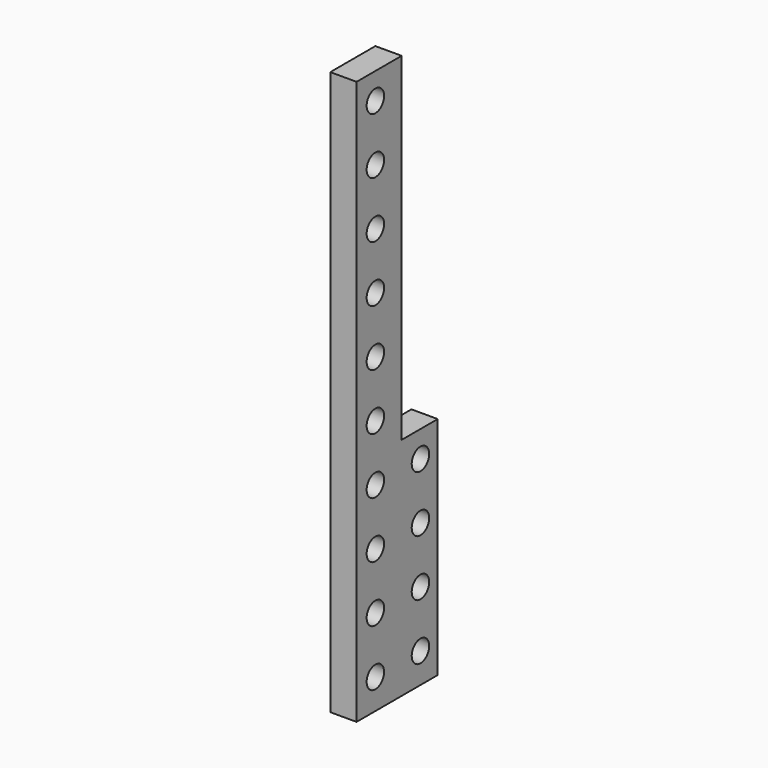
from build123d import *

# Parameters (mm, degrees)
CYLINDER021_R     = 2.9
CYLINDER021_DEPTH = 132
CYLINDER022_R     = 2.9
CYLINDER022_DEPTH = 132
CYLINDER023_R     = 2.9
CYLINDER023_DEPTH = 132
CYLINDER024_R     = 2.9
CYLINDER024_DEPTH = 132
CYLINDER025_R     = 2.9
CYLINDER025_DEPTH = 132
CYLINDER026_R     = 2.9
CYLINDER026_DEPTH = 132
CYLINDER027_R     = 2.9
CYLINDER027_DEPTH = 132
CYLINDER028_R     = 2.9
CYLINDER028_DEPTH = 132
CYLINDER029_R     = 2.9
CYLINDER029_DEPTH = 132
CYLINDER030_R     = 2.9
CYLINDER030_DEPTH = 132
CYLINDER031_R     = 2.9
CYLINDER031_DEPTH = 132
CYLINDER032_R     = 2.9
CYLINDER032_DEPTH = 132
CYLINDER033_R     = 2.9
CYLINDER033_DEPTH = 132
CYLINDER034_R     = 2.9
CYLINDER034_DEPTH = 132
CYLINDER035_R     = 2.9
CYLINDER035_DEPTH = 132
CYLINDER036_R     = 2.9
CYLINDER036_DEPTH = 132
CYLINDER037_R     = 2.9
CYLINDER037_DEPTH = 132
CYLINDER038_R     = 2.9
CYLINDER038_DEPTH = 132
CYLINDER039_R     = 2.9
CYLINDER039_DEPTH = 132
CYLINDER020_R     = 2.9
CYLINDER020_DEPTH = 132
CYLINDER001_R     = 2.9
CYLINDER001_DEPTH = 132
CYLINDER002_R     = 2.9
CYLINDER002_DEPTH = 132
CYLINDER003_R     = 2.9
CYLINDER003_DEPTH = 132
CYLINDER004_R     = 2.9
CYLINDER004_DEPTH = 132
CYLINDER005_R     = 2.9
CYLINDER005_DEPTH = 132
CYLINDER006_R     = 2.9
CYLINDER006_DEPTH = 132
CYLINDER007_R     = 2.9
CYLINDER007_DEPTH = 132
CYLINDER008_R     = 2.9
CYLINDER008_DEPTH = 132
CYLINDER009_R     = 2.9
CYLINDER009_DEPTH = 132
CYLINDER010_R     = 2.9
CYLINDER010_DEPTH = 132
CYLINDER011_R     = 2.9
CYLINDER011_DEPTH = 132
CYLINDER012_R     = 2.9
CYLINDER012_DEPTH = 132
CYLINDER013_R     = 2.9
CYLINDER013_DEPTH = 132
CYLINDER014_R     = 2.9
CYLINDER014_DEPTH = 132
CYLINDER015_R     = 2.9
CYLINDER015_DEPTH = 132
CYLINDER016_R     = 2.9
CYLINDER016_DEPTH = 132
CYLINDER017_R     = 2.9
CYLINDER017_DEPTH = 132
CYLINDER018_R     = 2.9
CYLINDER018_DEPTH = 132
CYLINDER019_R     = 2.9
CYLINDER019_DEPTH = 132
CYLINDER_R        = 2.9
CYLINDER_DEPTH    = 132
CUBE001_W         = 7
CUBE001_H         = 15
CUBE001_DEPTH     = 150
CUBE_W            = 7
CUBE_H            = 12
CUBE_DEPTH        = 60


with BuildPart() as cylinder021:
    # cylinder021 → cylinder021 (new body)
    with BuildSketch(Plane(origin=(-66, 0, 25), x_dir=(0, 0, -1), z_dir=(1, 0, 0))):
        Circle(CYLINDER021_R)
    extrude(amount=CYLINDER021_DEPTH)


with BuildPart() as cylinder022:
    # cylinder022 → cylinder022 (new body)
    with BuildSketch(Plane(origin=(-66, 0, 40), x_dir=(0, 0, -1), z_dir=(1, 0, 0))):
        Circle(CYLINDER022_R)
    extrude(amount=CYLINDER022_DEPTH)


with BuildPart() as cylinder023:
    # cylinder023 → cylinder023 (new body)
    with BuildSketch(Plane(origin=(-66, 0, 55), x_dir=(0, 0, -1), z_dir=(1, 0, 0))):
        Circle(CYLINDER023_R)
    extrude(amount=CYLINDER023_DEPTH)


with BuildPart() as cylinder024:
    # cylinder024 → cylinder024 (new body)
    with BuildSketch(Plane(origin=(-66, 0, 70), x_dir=(0, 0, -1), z_dir=(1, 0, 0))):
        Circle(CYLINDER024_R)
    extrude(amount=CYLINDER024_DEPTH)


with BuildPart() as cylinder025:
    # cylinder025 → cylinder025 (new body)
    with BuildSketch(Plane(origin=(-66, 0, 85), x_dir=(0, 0, -1), z_dir=(1, 0, 0))):
        Circle(CYLINDER025_R)
    extrude(amount=CYLINDER025_DEPTH)


with BuildPart() as cylinder026:
    # cylinder026 → cylinder026 (new body)
    with BuildSketch(Plane(origin=(-66, 0, 100), x_dir=(0, 0, -1), z_dir=(1, 0, 0))):
        Circle(CYLINDER026_R)
    extrude(amount=CYLINDER026_DEPTH)


with BuildPart() as cylinder027:
    # cylinder027 → cylinder027 (new body)
    with BuildSketch(Plane(origin=(-66, 0, 115), x_dir=(0, 0, -1), z_dir=(1, 0, 0))):
        Circle(CYLINDER027_R)
    extrude(amount=CYLINDER027_DEPTH)


with BuildPart() as cylinder028:
    # cylinder028 → cylinder028 (new body)
    with BuildSketch(Plane(origin=(-66, 0, 130), x_dir=(0, 0, -1), z_dir=(1, 0, 0))):
        Circle(CYLINDER028_R)
    extrude(amount=CYLINDER028_DEPTH)


with BuildPart() as cylinder029:
    # cylinder029 → cylinder029 (new body)
    with BuildSketch(Plane(origin=(-66, 0, 145), x_dir=(0, 0, -1), z_dir=(1, 0, 0))):
        Circle(CYLINDER029_R)
    extrude(amount=CYLINDER029_DEPTH)


with BuildPart() as cylinder030:
    # cylinder030 → cylinder030 (new body)
    with BuildSketch(Plane(origin=(-66, 0, 160), x_dir=(0, 0, -1), z_dir=(1, 0, 0))):
        Circle(CYLINDER030_R)
    extrude(amount=CYLINDER030_DEPTH)


with BuildPart() as cylinder031:
    # cylinder031 → cylinder031 (new body)
    with BuildSketch(Plane(origin=(-66, 0, 175), x_dir=(0, 0, -1), z_dir=(1, 0, 0))):
        Circle(CYLINDER031_R)
    extrude(amount=CYLINDER031_DEPTH)


with BuildPart() as cylinder032:
    # cylinder032 → cylinder032 (new body)
    with BuildSketch(Plane(origin=(-66, 0, 190), x_dir=(0, 0, -1), z_dir=(1, 0, 0))):
        Circle(CYLINDER032_R)
    extrude(amount=CYLINDER032_DEPTH)


with BuildPart() as cylinder033:
    # cylinder033 → cylinder033 (new body)
    with BuildSketch(Plane(origin=(-66, 0, 205), x_dir=(0, 0, -1), z_dir=(1, 0, 0))):
        Circle(CYLINDER033_R)
    extrude(amount=CYLINDER033_DEPTH)


with BuildPart() as cylinder034:
    # cylinder034 → cylinder034 (new body)
    with BuildSketch(Plane(origin=(-66, 0, 220), x_dir=(0, 0, -1), z_dir=(1, 0, 0))):
        Circle(CYLINDER034_R)
    extrude(amount=CYLINDER034_DEPTH)


with BuildPart() as cylinder035:
    # cylinder035 → cylinder035 (new body)
    with BuildSketch(Plane(origin=(-66, 0, 235), x_dir=(0, 0, -1), z_dir=(1, 0, 0))):
        Circle(CYLINDER035_R)
    extrude(amount=CYLINDER035_DEPTH)


with BuildPart() as cylinder036:
    # cylinder036 → cylinder036 (new body)
    with BuildSketch(Plane(origin=(-66, 0, 250), x_dir=(0, 0, -1), z_dir=(1, 0, 0))):
        Circle(CYLINDER036_R)
    extrude(amount=CYLINDER036_DEPTH)


with BuildPart() as cylinder037:
    # cylinder037 → cylinder037 (new body)
    with BuildSketch(Plane(origin=(-66, 0, 265), x_dir=(0, 0, -1), z_dir=(1, 0, 0))):
        Circle(CYLINDER037_R)
    extrude(amount=CYLINDER037_DEPTH)


with BuildPart() as cylinder038:
    # cylinder038 → cylinder038 (new body)
    with BuildSketch(Plane(origin=(-66, 0, 280), x_dir=(0, 0, -1), z_dir=(1, 0, 0))):
        Circle(CYLINDER038_R)
    extrude(amount=CYLINDER038_DEPTH)


with BuildPart() as cylinder039:
    # cylinder039 → cylinder039 (new body)
    with BuildSketch(Plane(origin=(-66, 0, 295), x_dir=(0, 0, -1), z_dir=(1, 0, 0))):
        Circle(CYLINDER039_R)
    extrude(amount=CYLINDER039_DEPTH)


with BuildPart() as group001:
    # cylinder020 → cylinder020 (new body)
    with BuildSketch(Plane(origin=(-66, 0, 10), x_dir=(0, 0, -1), z_dir=(1, 0, 0))):
        Circle(CYLINDER020_R)
    extrude(amount=CYLINDER020_DEPTH)

    # Group001: union cylinder021, cylinder022, cylinder023, cylinder024, cylinder025, cylinder026, cylinder027, cylinder028, cylinder029, cylinder030, cylinder031, cylinder032, cylinder033, cylinder034, cylinder035, cylinder036, cylinder037, cylinder038, cylinder039
    add(cylinder021.part)
    add(cylinder022.part)
    add(cylinder023.part)
    add(cylinder024.part)
    add(cylinder025.part)
    add(cylinder026.part)
    add(cylinder027.part)
    add(cylinder028.part)
    add(cylinder029.part)
    add(cylinder030.part)
    add(cylinder031.part)
    add(cylinder032.part)
    add(cylinder033.part)
    add(cylinder034.part)
    add(cylinder035.part)
    add(cylinder036.part)
    add(cylinder037.part)
    add(cylinder038.part)
    add(cylinder039.part)


with BuildPart() as group001_1:
    # Group001 placement: moved
    add(group001.part.moved(Location((0, -34.75, -32))))


with BuildPart() as cylinder001:
    # cylinder001 → cylinder001 (new body)
    with BuildSketch(Plane(origin=(-66, 0, 25), x_dir=(0, 0, -1), z_dir=(1, 0, 0))):
        Circle(CYLINDER001_R)
    extrude(amount=CYLINDER001_DEPTH)


with BuildPart() as cylinder002:
    # cylinder002 → cylinder002 (new body)
    with BuildSketch(Plane(origin=(-66, 0, 40), x_dir=(0, 0, -1), z_dir=(1, 0, 0))):
        Circle(CYLINDER002_R)
    extrude(amount=CYLINDER002_DEPTH)


with BuildPart() as cylinder003:
    # cylinder003 → cylinder003 (new body)
    with BuildSketch(Plane(origin=(-66, 0, 55), x_dir=(0, 0, -1), z_dir=(1, 0, 0))):
        Circle(CYLINDER003_R)
    extrude(amount=CYLINDER003_DEPTH)


with BuildPart() as cylinder004:
    # cylinder004 → cylinder004 (new body)
    with BuildSketch(Plane(origin=(-66, 0, 70), x_dir=(0, 0, -1), z_dir=(1, 0, 0))):
        Circle(CYLINDER004_R)
    extrude(amount=CYLINDER004_DEPTH)


with BuildPart() as cylinder005:
    # cylinder005 → cylinder005 (new body)
    with BuildSketch(Plane(origin=(-66, 0, 85), x_dir=(0, 0, -1), z_dir=(1, 0, 0))):
        Circle(CYLINDER005_R)
    extrude(amount=CYLINDER005_DEPTH)


with BuildPart() as cylinder006:
    # cylinder006 → cylinder006 (new body)
    with BuildSketch(Plane(origin=(-66, 0, 100), x_dir=(0, 0, -1), z_dir=(1, 0, 0))):
        Circle(CYLINDER006_R)
    extrude(amount=CYLINDER006_DEPTH)


with BuildPart() as cylinder007:
    # cylinder007 → cylinder007 (new body)
    with BuildSketch(Plane(origin=(-66, 0, 115), x_dir=(0, 0, -1), z_dir=(1, 0, 0))):
        Circle(CYLINDER007_R)
    extrude(amount=CYLINDER007_DEPTH)


with BuildPart() as cylinder008:
    # cylinder008 → cylinder008 (new body)
    with BuildSketch(Plane(origin=(-66, 0, 130), x_dir=(0, 0, -1), z_dir=(1, 0, 0))):
        Circle(CYLINDER008_R)
    extrude(amount=CYLINDER008_DEPTH)


with BuildPart() as cylinder009:
    # cylinder009 → cylinder009 (new body)
    with BuildSketch(Plane(origin=(-66, 0, 145), x_dir=(0, 0, -1), z_dir=(1, 0, 0))):
        Circle(CYLINDER009_R)
    extrude(amount=CYLINDER009_DEPTH)


with BuildPart() as cylinder010:
    # cylinder010 → cylinder010 (new body)
    with BuildSketch(Plane(origin=(-66, 0, 160), x_dir=(0, 0, -1), z_dir=(1, 0, 0))):
        Circle(CYLINDER010_R)
    extrude(amount=CYLINDER010_DEPTH)


with BuildPart() as cylinder011:
    # cylinder011 → cylinder011 (new body)
    with BuildSketch(Plane(origin=(-66, 0, 175), x_dir=(0, 0, -1), z_dir=(1, 0, 0))):
        Circle(CYLINDER011_R)
    extrude(amount=CYLINDER011_DEPTH)


with BuildPart() as cylinder012:
    # cylinder012 → cylinder012 (new body)
    with BuildSketch(Plane(origin=(-66, 0, 190), x_dir=(0, 0, -1), z_dir=(1, 0, 0))):
        Circle(CYLINDER012_R)
    extrude(amount=CYLINDER012_DEPTH)


with BuildPart() as cylinder013:
    # cylinder013 → cylinder013 (new body)
    with BuildSketch(Plane(origin=(-66, 0, 205), x_dir=(0, 0, -1), z_dir=(1, 0, 0))):
        Circle(CYLINDER013_R)
    extrude(amount=CYLINDER013_DEPTH)


with BuildPart() as cylinder014:
    # cylinder014 → cylinder014 (new body)
    with BuildSketch(Plane(origin=(-66, 0, 220), x_dir=(0, 0, -1), z_dir=(1, 0, 0))):
        Circle(CYLINDER014_R)
    extrude(amount=CYLINDER014_DEPTH)


with BuildPart() as cylinder015:
    # cylinder015 → cylinder015 (new body)
    with BuildSketch(Plane(origin=(-66, 0, 235), x_dir=(0, 0, -1), z_dir=(1, 0, 0))):
        Circle(CYLINDER015_R)
    extrude(amount=CYLINDER015_DEPTH)


with BuildPart() as cylinder016:
    # cylinder016 → cylinder016 (new body)
    with BuildSketch(Plane(origin=(-66, 0, 250), x_dir=(0, 0, -1), z_dir=(1, 0, 0))):
        Circle(CYLINDER016_R)
    extrude(amount=CYLINDER016_DEPTH)


with BuildPart() as cylinder017:
    # cylinder017 → cylinder017 (new body)
    with BuildSketch(Plane(origin=(-66, 0, 265), x_dir=(0, 0, -1), z_dir=(1, 0, 0))):
        Circle(CYLINDER017_R)
    extrude(amount=CYLINDER017_DEPTH)


with BuildPart() as cylinder018:
    # cylinder018 → cylinder018 (new body)
    with BuildSketch(Plane(origin=(-66, 0, 280), x_dir=(0, 0, -1), z_dir=(1, 0, 0))):
        Circle(CYLINDER018_R)
    extrude(amount=CYLINDER018_DEPTH)


with BuildPart() as cylinder019:
    # cylinder019 → cylinder019 (new body)
    with BuildSketch(Plane(origin=(-66, 0, 295), x_dir=(0, 0, -1), z_dir=(1, 0, 0))):
        Circle(CYLINDER019_R)
    extrude(amount=CYLINDER019_DEPTH)


with BuildPart() as union:
    # cylinder → cylinder (new body)
    with BuildSketch(Plane(origin=(-66, 0, 10), x_dir=(0, 0, -1), z_dir=(1, 0, 0))):
        Circle(CYLINDER_R)
    extrude(amount=CYLINDER_DEPTH)

    # Group: union cylinder001, cylinder002, cylinder003, cylinder004, cylinder005, cylinder006, cylinder007, cylinder008, cylinder009, cylinder010, cylinder011, cylinder012, cylinder013, cylinder014, cylinder015, cylinder016, cylinder017, cylinder018, cylinder019
    add(cylinder001.part)
    add(cylinder002.part)
    add(cylinder003.part)
    add(cylinder004.part)
    add(cylinder005.part)
    add(cylinder006.part)
    add(cylinder007.part)
    add(cylinder008.part)
    add(cylinder009.part)
    add(cylinder010.part)
    add(cylinder011.part)
    add(cylinder012.part)
    add(cylinder013.part)
    add(cylinder014.part)
    add(cylinder015.part)
    add(cylinder016.part)
    add(cylinder017.part)
    add(cylinder018.part)
    add(cylinder019.part)


with BuildPart() as union_1:
    # Group placement: moved
    add(union.part.moved(Location((0, -19.75, -32))))

    # union: union Group001
    add(group001_1.part)


with BuildPart() as cube001:
    # cube001 → cube001 (new body)
    with BuildSketch(Plane(origin=(-3.5, -21, -30), x_dir=(1, 0, 0), z_dir=(0, 0, 1))):
        with Locations((3.5, 7.5)):
            Rectangle(CUBE001_W, CUBE001_H)
    extrude(amount=CUBE001_DEPTH)


with BuildPart() as difference:
    # cube → cube (new body)
    with BuildSketch(Plane(origin=(-3.5, -6, -30), x_dir=(1, 0, 0), z_dir=(0, 0, 1))):
        with Locations((3.5, 6)):
            Rectangle(CUBE_W, CUBE_H)
    extrude(amount=CUBE_DEPTH)

    # Matrix_Union: union cube001
    add(cube001.part)


with BuildPart() as difference_1:
    # Matrix_Union placement: moved
    add(difference.part.moved(Location((16.5, -20, 0))))

    # difference: cut union
    add(union_1.part, mode=Mode.SUBTRACT)


solid = difference_1.part
